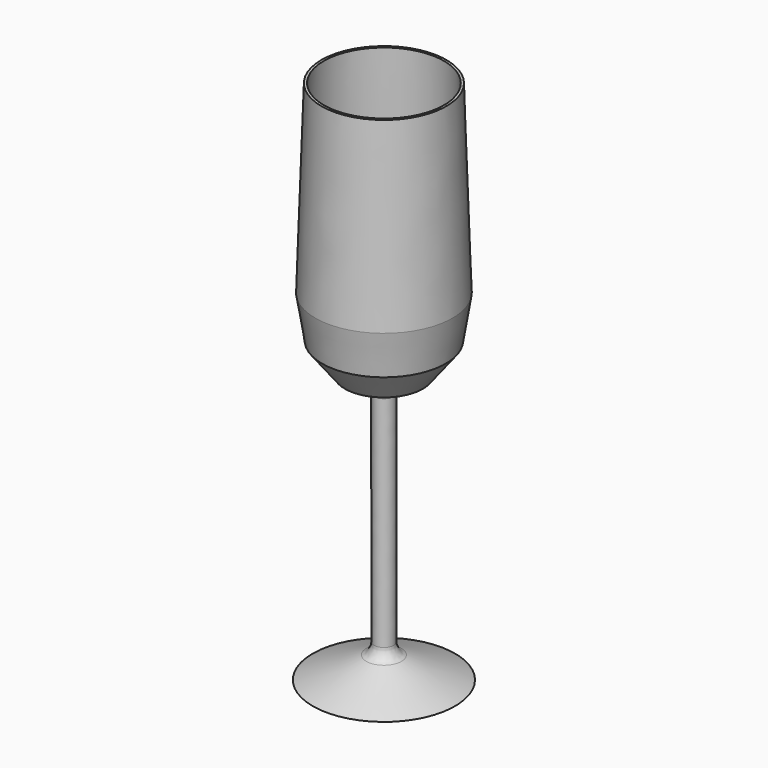
from build123d import *

# Parameters (mm, degrees)
F2_R = 5
F3_T = -1


with BuildPart() as f1:
    # F0 (on Front) → F1 (revolve)
    with BuildSketch(Plane.XZ):
        Polygon((0, 117.396138), (-25, 117.396138), (-27.432391, 43.610401), (-24.728384, 26.710369), (-15.602366, 14.880346), (-3.979215, 12.396138), (-3.930857, -82.543589), (-28.446393, -92.603862), (0, -92.603862), align=None)
    revolve(axis=Axis((0, 0, 12.396138), (0, 0, -1)))

    # F2
    f2_edges = [f1.edges().sort_by_distance(p)[0] for p in [
        (3.930857, 0, -82.543589),
        (3.979215, 0, 12.396138),
    ]]
    fillet(f2_edges, radius=F2_R)

    # F3
    f3_openings = [f1.faces().sort_by_distance(p)[0] for p in [
        (0, 0, 117.396138),
    ]]
    offset(amount=F3_T, openings=f3_openings)


solid = f1.part
